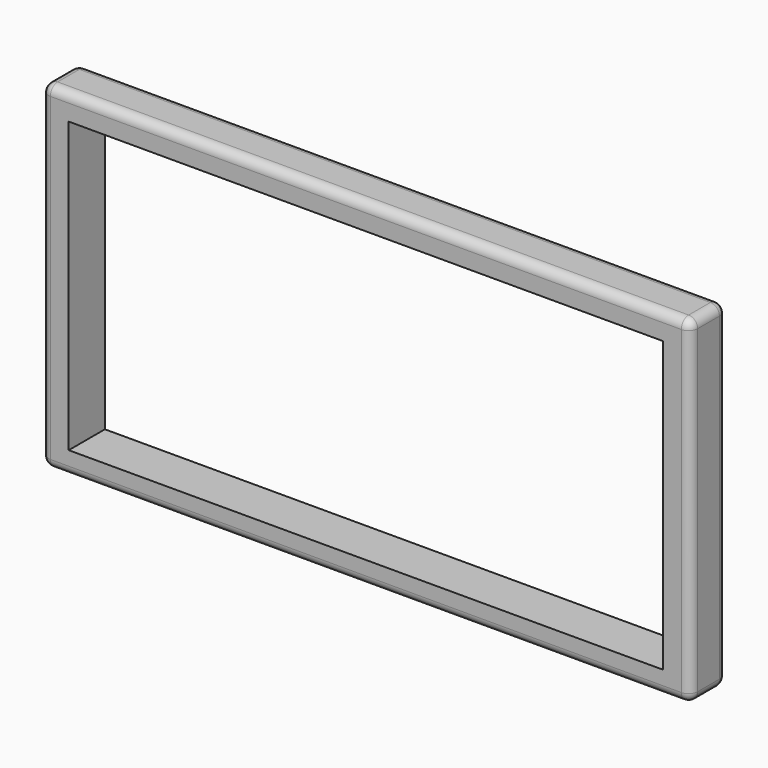
from build123d import *

# Parameters (mm, degrees)
F0_W     = 182.162993
F0_H     = 94.771992
F0_W_2   = 166.810512
F0_H_2   = 81.190959
F1_DEPTH = 12.7
F2_R     = 2.54


with BuildPart() as f1:
    # F0 (on Front) → F1 (new body)
    with BuildSketch(Plane.XZ):
        with Locations((-1.012441, -0.442857)):
            Rectangle(F0_W, F0_H)
        with Locations((-1.012437, -0.7381)):
            Rectangle(F0_W_2, F0_H_2, mode=Mode.SUBTRACT)
    extrude(amount=F1_DEPTH)

    # F2
    f2_edges = [f1.edges().sort_by_distance(p)[0] for p in [
        (-92.093937, -12.7, -0.442857),
        (-1.012441, -12.7, 46.943139),
        (-1.012441, -12.7, -47.828853),
        (90.069056, -12.7, -0.442857),
        (-92.093937, -6.35, 46.943139),
        (-92.093937, -6.35, -47.828853),
        (90.069056, -6.35, 46.943139),
        (90.069056, 0, -0.442857),
        (90.069056, -6.35, -47.828853),
        (-1.012441, 0, -47.828853),
        (-1.012441, 0, 46.943139),
        (-92.093937, 0, -0.442857),
    ]]
    fillet(f2_edges, radius=F2_R)


solid = f1.part
